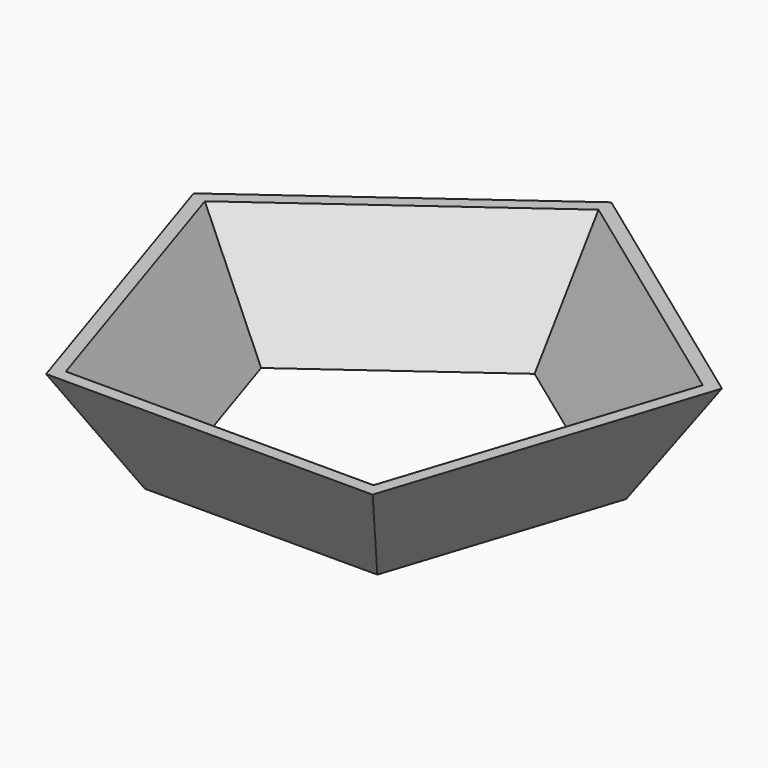
from build123d import *

# Parameters (mm, degrees)
F1_DEPTH = 25.4
F1_TAPER = -30
F2_T     = -2.54


with BuildPart() as f1:
    # F0 (on Top) → F1 (new body)
    with BuildSketch(Plane.XY):
        Polygon((-26.3652087767, -36.2885966897), (26.3652087767, -36.2885966897), (42.6598039212, 13.8610105314), (0, 44.8551723165), (-42.6598039212, 13.8610105314), align=None)
    extrude(amount=F1_DEPTH, taper=F1_TAPER)

    # F2
    f2_openings = [f1.faces().sort_by_distance(p)[0] for p in [
        (0, 0, 25.4),
        (0, 0, 0),
    ]]
    offset(amount=F2_T, openings=f2_openings, kind=Kind.INTERSECTION)


solid = f1.part
